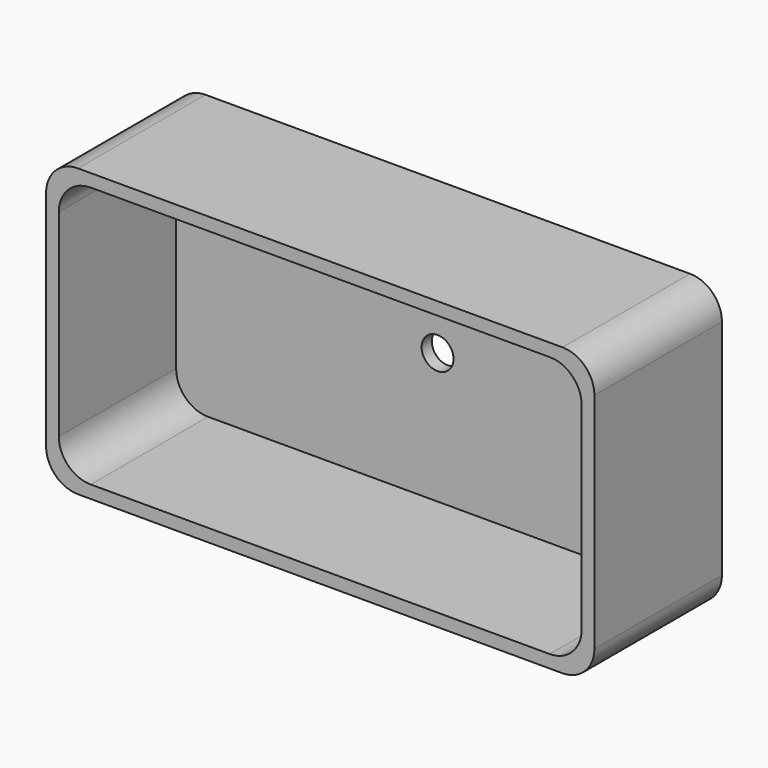
from build123d import *

# Parameters (mm, degrees)
F0_W     = 82
F0_H     = 41
F1_DEPTH = 2
F0_W_2   = 86
F0_H_2   = 45
F2_DEPTH = 25
F3_R     = 5
F4_D     = 5


with BuildPart() as f1:
    # F0 (on Front) → F1 (new body)
    with BuildSketch(Plane.XZ):
        Rectangle(F0_W, F0_H)
    extrude(amount=F1_DEPTH)

    # F0 (on Front) → F2 (join)
    with BuildSketch(Plane.XZ):
        Rectangle(F0_W_2, F0_H_2)
        Rectangle(F0_W, F0_H, mode=Mode.SUBTRACT)
    extrude(amount=F2_DEPTH)

    # F3
    f3_edges = [f1.edges().sort_by_distance(p)[0] for p in [
        (43, -12.5, 22.5),
        (-43, -12.5, -22.5),
        (-43, -12.5, 22.5),
        (43, -12.5, -22.5),
        (41, -13.5, -20.5),
        (-41, -13.5, -20.5),
        (41, -13.5, 20.5),
        (-41, -13.5, 20.5),
    ]]
    fillet(f3_edges, radius=F3_R)

    # F4 (through all)
    with Locations(Plane(origin=(0, 0, 0), x_dir=(1, 0, 0), z_dir=(0, 1, 0))):
        with Locations((0, 0)):
            Hole(F4_D / 2)


solid = f1.part
